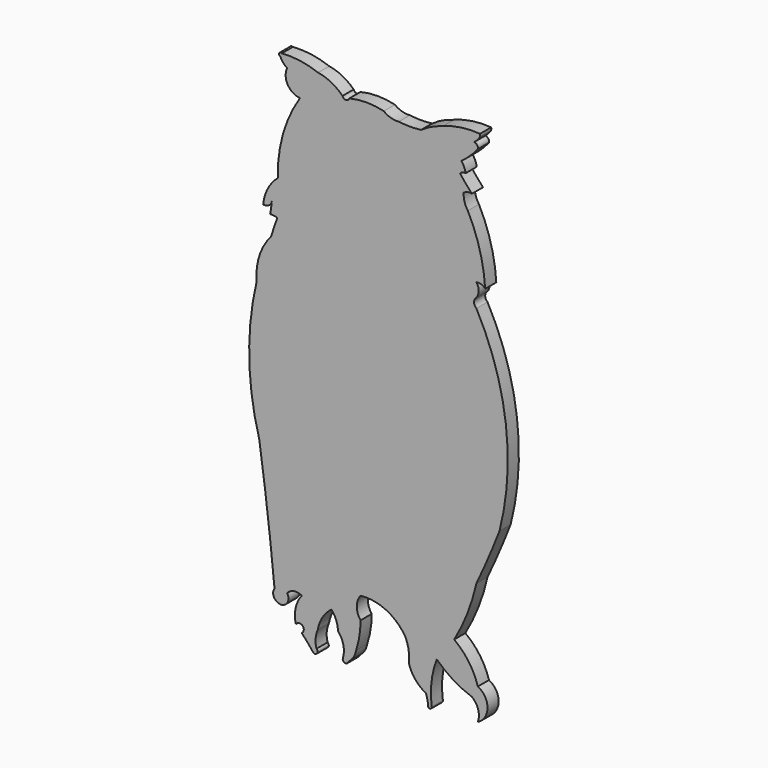
from build123d import *

# Parameters (mm, degrees)
F1_DEPTH = 4.064


with BuildPart() as f1:
    # F0 (on Front) → F1 (new body)
    with BuildSketch(Plane.XZ):
        with BuildLine():
            ThreePointArc((-66.415959, 76.914086), (-67.172145, 76.691627), (-66.809714, 75.991663))
            ThreePointArc((-66.809714, 75.991663), (-66.017951, 74.646721), (-64.843036, 73.619425))
            ThreePointArc((-64.843036, 73.619425), (-64.666112, 69.398687), (-61.0939, 67.143641))
            ThreePointArc((-61.0939, 67.143641), (-66.055858, 56.303612), (-67.569681, 44.478402))
            ThreePointArc((-67.569681, 44.478402), (-70.50287, 40.806661), (-71.830064, 36.298465))
            ThreePointArc((-71.830064, 36.298465), (-70.238683, 36.587844), (-69.314263, 37.915128))
            ThreePointArc((-69.314263, 37.915128), (-69.520495, 36.197783), (-69.80937, 34.492392))
            ThreePointArc((-69.80937, 34.492392), (-68.738891, 34.449604), (-67.69567, 34.205791))
            ThreePointArc((-67.69567, 34.205791), (-68.644172, 31.540218), (-69.49908, 28.84317))
            ThreePointArc((-69.49908, 28.84317), (-72.946881, 22.816432), (-73.735699, 15.918123))
            ThreePointArc((-73.735699, 15.918123), (-75.910649, -4.322399), (-72.977036, -24.466952))
            ThreePointArc((-72.977036, -24.466952), (-70.518883, -42.867891), (-68.532197, -61.325684))
            ThreePointArc((-68.532197, -61.325684), (-66.688611, -64.841953), (-64.845026, -61.325684))
            ThreePointArc((-64.845026, -61.325684), (-62.852462, -60.158363), (-60.584038, -60.591031))
            ThreePointArc((-60.584038, -60.591031), (-62.366804, -64.333838), (-62.294377, -68.47891))
            ThreePointArc((-62.294377, -68.47891), (-60.351727, -68.232553), (-60.584038, -70.176932))
            ThreePointArc((-60.584038, -70.176932), (-58.918947, -72.027605), (-57.351563, -73.961727))
            ThreePointArc((-57.351563, -73.961727), (-56.146991, -74.041168), (-56.287132, -72.842141))
            ThreePointArc((-56.287132, -72.842141), (-56.528845, -70.272437), (-55.882256, -67.773692))
            ThreePointArc((-55.882256, -67.773692), (-54.520205, -64.167303), (-51.915128, -61.325684))
            ThreePointArc((-51.915128, -61.325684), (-50.51679, -63.617178), (-50.00503, -66.252401))
            ThreePointArc((-50.00503, -66.252401), (-48.412524, -69.353697), (-48.59242, -72.835328))
            ThreePointArc((-48.59242, -72.835328), (-47.924139, -73.806953), (-46.987015, -73.091094))
            ThreePointArc((-46.987015, -73.091094), (-45.486049, -71.528376), (-44.715524, -69.503214))
            ThreePointArc((-44.715524, -69.503214), (-43.721814, -65.468221), (-43.39315, -61.325684))
            ThreePointArc((-43.39315, -61.325684), (-44.513459, -58.166673), (-43.39315, -55.007663))
            ThreePointArc((-43.39315, -55.007663), (-35.936491, -56.266123), (-30.316319, -61.325684))
            ThreePointArc((-30.316319, -61.325684), (-29.359215, -64.47905), (-29.287802, -67.773692))
            ThreePointArc((-29.287802, -67.773692), (-27.447605, -71.320201), (-24.352325, -73.846719))
            ThreePointArc((-24.352325, -73.846719), (-23.889052, -75.343964), (-23.704438, -76.900333))
            ThreePointArc((-23.704438, -76.900333), (-23.092076, -77.454732), (-22.629103, -76.770626))
            ThreePointArc((-22.629103, -76.770626), (-22.69355, -70.344178), (-21.146461, -64.106397))
            ThreePointArc((-21.146461, -64.106397), (-16.406969, -67.834653), (-10.9533, -70.407622))
            ThreePointArc((-10.9533, -70.407622), (-9.080009, -73.063494), (-9.1583, -76.312609))
            ThreePointArc((-9.1583, -76.312609), (-6.332531, -71.75776), (-9.1583, -67.202911))
            ThreePointArc((-9.1583, -67.202911), (-11.807812, -61.726767), (-16.064042, -57.380209))
            ThreePointArc((-16.064042, -57.380209), (-12.202431, -49.388101), (-9.599092, -40.90232))
            ThreePointArc((-9.599092, -40.90232), (-6.08091, -33.101189), (-2.84028, -25.180737))
            ThreePointArc((-2.84028, -25.180737), (-0.994144, 2.976639), (-9.599092, 29.850435))
            ThreePointArc((-9.599092, 29.850435), (-10.261747, 31.2046), (-9.599092, 32.558765))
            ThreePointArc((-9.599092, 32.558765), (-8.917225, 34.568172), (-9.599092, 36.577579))
            ThreePointArc((-9.599092, 36.577579), (-8.189599, 36.500467), (-7.024208, 35.703924))
            ThreePointArc((-7.024208, 35.703924), (-8.593374, 45.18609), (-12.091408, 54.138046))
            ThreePointArc((-12.091408, 54.138046), (-13.067545, 56.145089), (-13.282336, 58.366559))
            ThreePointArc((-13.282336, 58.366559), (-12.146196, 58.89145), (-10.894712, 58.880817))
            ThreePointArc((-10.894712, 58.880817), (-12.661005, 60.885727), (-14.347583, 62.958144))
            ThreePointArc((-14.347583, 62.958144), (-13.617504, 63.466614), (-12.731345, 63.545868))
            ThreePointArc((-12.731345, 63.545868), (-13.158819, 65.019265), (-13.943524, 66.337548))
            ThreePointArc((-13.943524, 66.337548), (-11.402644, 68.467779), (-9.15432, 70.904784))
            ThreePointArc((-9.15432, 70.904784), (-9.381127, 71.904914), (-10.293034, 72.374091))
            ThreePointArc((-10.293034, 72.374091), (-9.485105, 73.019394), (-8.860459, 73.843397))
            ThreePointArc((-8.860459, 73.843397), (-8.522262, 74.402333), (-8.529865, 75.055577))
            ThreePointArc((-8.529865, 75.055577), (-14.055948, 74.882941), (-19.402735, 73.476076))
            ThreePointArc((-19.402735, 73.476076), (-22.695461, 72.250511), (-25.720755, 70.463993))
            ThreePointArc((-25.720755, 70.463993), (-28.977803, 70.239264), (-32.234851, 70.463993))
            ThreePointArc((-32.234851, 70.463993), (-34.548049, 70.692721), (-36.621001, 71.74442))
            ThreePointArc((-36.621001, 71.74442), (-41.655805, 72.345638), (-46.690609, 71.74442))
            ThreePointArc((-46.690609, 71.74442), (-47.679037, 71.017736), (-48.667464, 71.74442))
            ThreePointArc((-48.667464, 71.74442), (-51.942994, 74.141168), (-55.799965, 75.405002))
            ThreePointArc((-55.799965, 75.405002), (-61.025995, 76.736158), (-66.415959, 76.914086))
        make_face()
    extrude(amount=F1_DEPTH)


solid = f1.part
